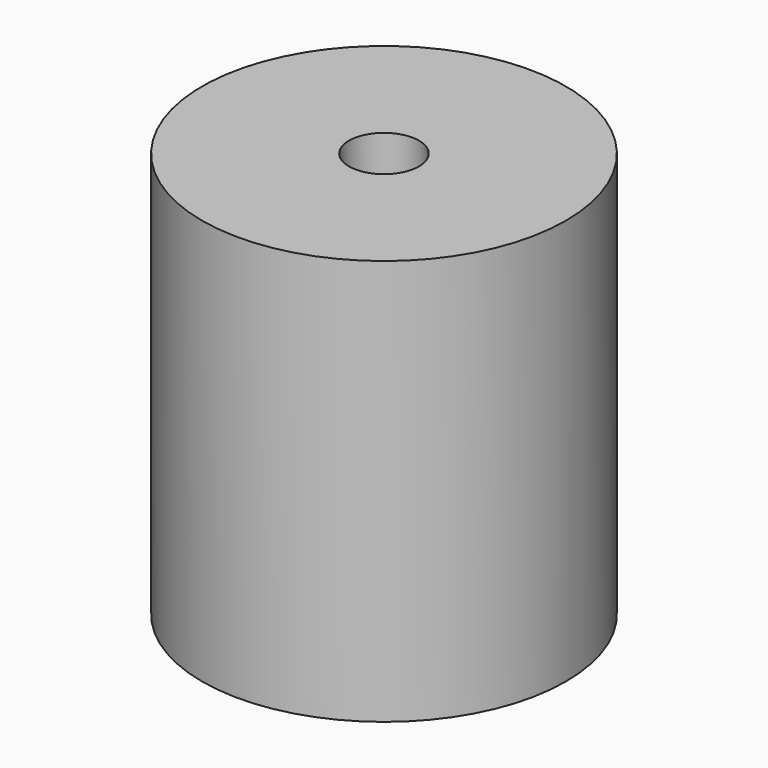
from build123d import *

# Parameters (mm, degrees)
SKETCH_R      = 13
SKETCH_R_2    = 10
PAD_DEPTH     = 6
SKETCH001_R   = 13
SKETCH001_R_2 = 8.5
PAD001_DEPTH  = 20
SKETCH002_R   = 13
PAD002_DEPTH  = 3
SKETCH003_R   = 2.5
POCKET_DEPTH  = 29.001
CHAMFER_SIZE  = 0.5


with BuildPart() as part:
    # Sketch → Pad (new body)
    with BuildSketch(Plane.XY):
        Circle(SKETCH_R)
        Circle(SKETCH_R_2, mode=Mode.SUBTRACT)
    extrude(amount=PAD_DEPTH)

    # Sketch001 (on Face4 of Pad) → Pad001 (join)
    with BuildSketch(Plane.XY.offset(6)):
        Circle(SKETCH001_R)
        Circle(SKETCH001_R_2, mode=Mode.SUBTRACT)
    extrude(amount=PAD001_DEPTH)

    # Sketch002 (on Face5 of Pad001) → Pad002 (join)
    with BuildSketch(Plane.XY.offset(26)):
        Circle(SKETCH002_R)
    extrude(amount=PAD002_DEPTH)

    # Sketch003 (on Face7 of Pad002) → Pocket (cut, through all)
    with BuildSketch(Plane.XY.offset(29)):
        Circle(SKETCH003_R)
    extrude(amount=-POCKET_DEPTH, mode=Mode.SUBTRACT)

    # Chamfer
    chamfer_edges = [part.edges().sort_by_distance(p)[0] for p in [
        (-10, 0, 0),
    ]]
    chamfer(chamfer_edges, length=CHAMFER_SIZE)


solid = part.part
